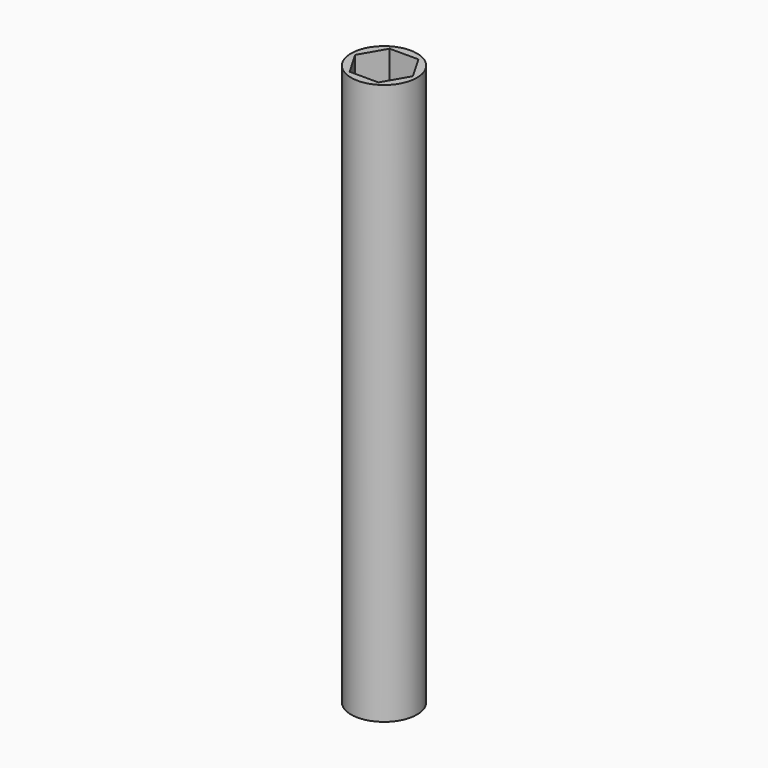
from build123d import *

# Parameters (mm, degrees)
F0_R     = 4.111382
F1_DEPTH = 70
F3_DEPTH = 70.001


with BuildPart() as f1:
    # F0 (on Top) → F1 (new body)
    with BuildSketch(Plane.XY):
        Circle(F0_R)
    extrude(amount=F1_DEPTH)

    # F2 (on face) → F3 (cut, through all)
    with BuildSketch(Plane.XY.offset(70)):
        Polygon((-1.801964, -3.121092), (1.801964, -3.121092), (3.603927, 0), (1.801964, 3.121092), (-1.801964, 3.121092), (-3.603927, 0), align=None)
    extrude(amount=-F3_DEPTH, mode=Mode.SUBTRACT)


solid = f1.part
